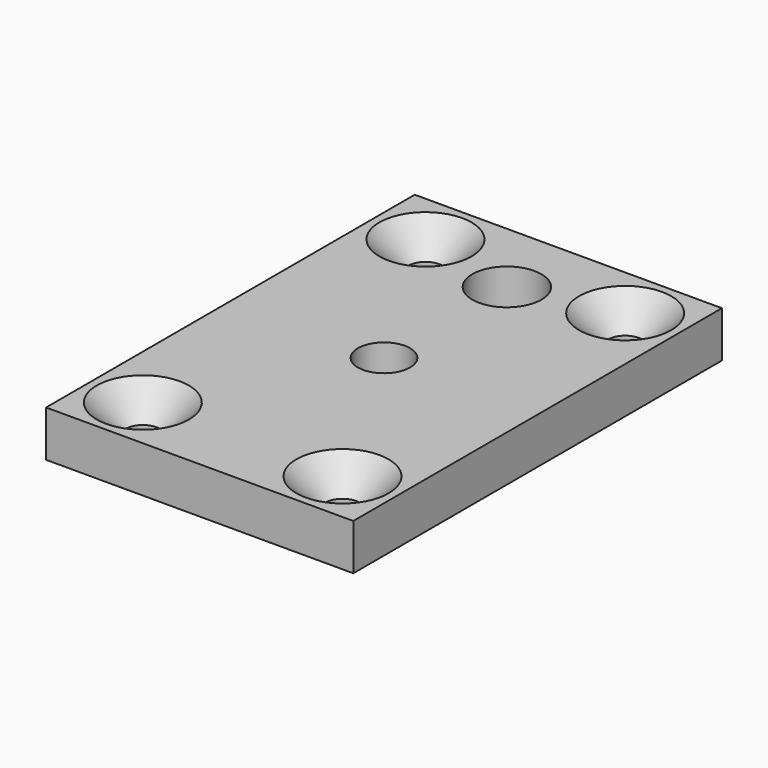
from build123d import *

# Parameters (mm, degrees)
F0_W     = 40
F0_H     = 60
F0_R     = 2.25
F0_R_2   = 3.4
F0_R_3   = 4.5
F1_DEPTH = 6
F2_SIZE  = 3.75


with BuildPart() as f1:
    # F0 (on Top) → F1 (new body)
    with BuildSketch(Plane.XY):
        with Locations((20, 30)):
            Rectangle(F0_W, F0_H)
        with Locations((7, 7)):
            Circle(F0_R, mode=Mode.SUBTRACT)
        with Locations((33, 7)):
            Circle(F0_R, mode=Mode.SUBTRACT)
        with Locations((7, 53)):
            Circle(F0_R, mode=Mode.SUBTRACT)
        with Locations((20, 30)):
            Circle(F0_R_2, mode=Mode.SUBTRACT)
        with Locations((20, 50)):
            Circle(F0_R_3, mode=Mode.SUBTRACT)
        with Locations((33, 53)):
            Circle(F0_R, mode=Mode.SUBTRACT)
    extrude(amount=F1_DEPTH)

    # F2
    f2_edges = [f1.edges().sort_by_distance(p)[0] for p in [
        (4.75, 7, 6),
        (30.75, 7, 6),
        (30.75, 53, 6),
        (4.75, 53, 6),
    ]]
    chamfer(f2_edges, length=F2_SIZE)


solid = f1.part
